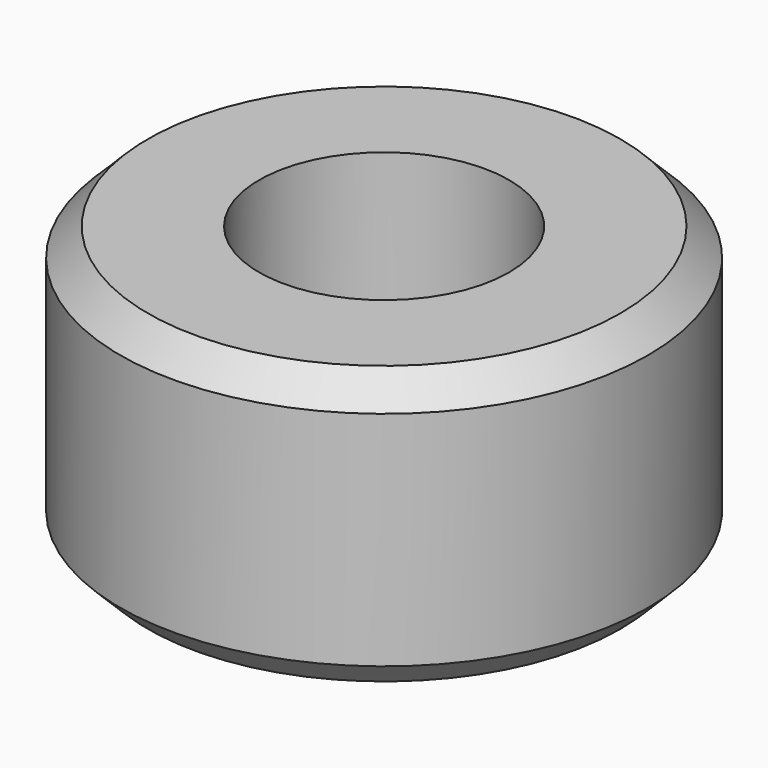
from build123d import *

# Parameters (mm, degrees)
F0_R     = 4.75
F0_R_2   = 2.25
F1_DEPTH = 3
F2_DEPTH = 2
F3_SIZE  = 0.5


with BuildPart() as f1:
    # F0 (on Top) → F1 (new body)
    with BuildSketch(Plane.XY):
        Circle(F0_R)
        Circle(F0_R_2, mode=Mode.SUBTRACT)
    extrude(amount=F1_DEPTH)

    # F0 (on Top) → F2 (join)
    with BuildSketch(Plane.XY):
        Circle(F0_R)
        Circle(F0_R_2, mode=Mode.SUBTRACT)
        Circle(F0_R_2)
    extrude(amount=-F2_DEPTH)

    # F3
    f3_edges = [f1.edges().sort_by_distance(p)[0] for p in [
        (-4.75, 0, 3),
        (-4.75, 0, -2),
    ]]
    chamfer(f3_edges, length=F3_SIZE)


solid = f1.part
